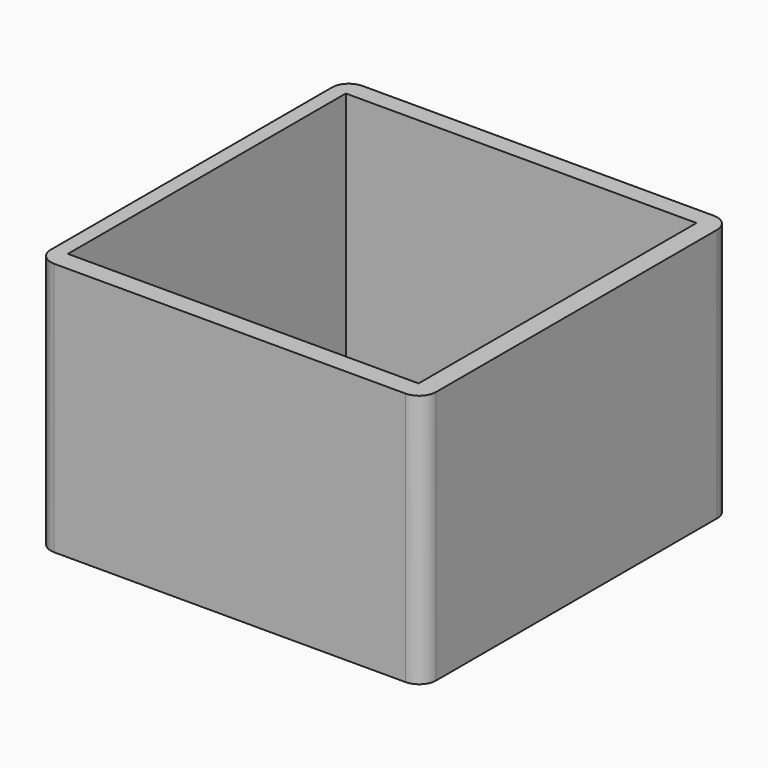
from build123d import *

# Parameters (mm, degrees)
F0_W     = 45.500002
F0_H     = 45.500004
F0_W_2   = 41.416668
F0_H_2   = 41.027776
F1_DEPTH = 2
F2_DEPTH = 30
F3_R     = 2


with BuildPart() as f1:
    # F0 (on Top) → F1 (new body)
    with BuildSketch(Plane.XY):
        with Locations((0.291666, -0.097222)):
            Rectangle(F0_W, F0_H)
        Rectangle(F0_W_2, F0_H_2, mode=Mode.SUBTRACT)
        Rectangle(F0_W_2, F0_H_2)
    extrude(amount=F1_DEPTH)

    # F0 (on Top) → F2 (join)
    with BuildSketch(Plane.XY):
        with Locations((0.291666, -0.097222)):
            Rectangle(F0_W, F0_H)
        Rectangle(F0_W_2, F0_H_2, mode=Mode.SUBTRACT)
    extrude(amount=F2_DEPTH)

    # F3
    f3_edges = [f1.edges().sort_by_distance(p)[0] for p in [
        (-22.458335, -22.847224, 15),
        (23.041667, -22.847224, 15),
        (23.041667, 22.65278, 15),
        (-22.458335, 22.65278, 15),
    ]]
    fillet(f3_edges, radius=F3_R)


solid = f1.part
